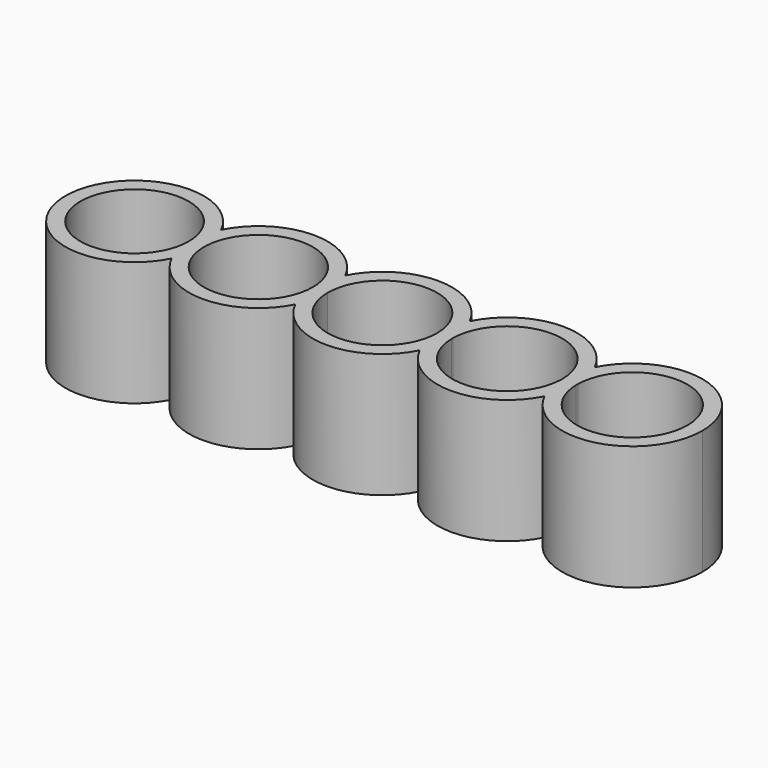
from build123d import *

# Parameters (mm, degrees)
F0_R     = 10.95
F0_R_2   = 10.9
F1_DEPTH = 25


with BuildPart() as f1:
    # F0 (on Top) → F1 (new body)
    with BuildSketch(Plane.XY):
        with BuildLine():
            ThreePointArc((10.9972683067, 0.2451321879), (10.9993170555, 0.122573704), (11, 0))
            ThreePointArc((11, 0), (10.9996660231, -0.0857168628), (10.9986641126, -0.1714285206))
            ThreePointArc((10.9986641126, -0.1714285206), (11.4118831548, -3.3078286765), (12.5163312879, -6.2722763883))
            ThreePointArc((12.5163312879, -6.2722763883), (13.6052225389, -3.3011997316), (13.9990687383, -0.1614758858))
            ThreePointArc((13.9990687383, -0.1614758858), (13.9964054773, 0.0468989626), (13.997672255, 0.2552869798))
            ThreePointArc((13.997672255, 0.2552869798), (13.582794049, 3.3923009629), (12.4740165875, 6.3560137016))
            ThreePointArc((12.4740165875, 6.3560137016), (11.3894594932, 3.3842311013), (10.9972683067, 0.2451321879))
        make_face()
        with BuildLine():
            ThreePointArc((-11, 0), (-0.122573704, 10.9993170555), (10.9972683067, 0.2451321879))
            ThreePointArc((10.9972683067, 0.2451321879), (11.3894594932, 3.3842311013), (12.4740165875, 6.3560137016))
            ThreePointArc((12.4740165875, 6.3560137016), (-0.0320708777, 13.9999632663), (-12.503006012, 6.2987967631))
            ThreePointArc((-12.503006012, 6.2987967631), (-11.3809531261, 3.2378182367), (-11, 0))
        make_face()
        with BuildLine():
            ThreePointArc((12.5163312879, -6.2722763883), (11.4118831548, -3.3078286765), (10.9986641126, -0.1714285206))
            ThreePointArc((10.9986641126, -0.1714285206), (-0.0857168628, -10.9996660231), (-11, 0))
            ThreePointArc((-11, 0), (-11.3809531261, -3.2378182367), (-12.503006012, -6.2987967631))
            ThreePointArc((-12.503006012, -6.2987967631), (0.014839923, -13.9999921349), (12.5163312879, -6.2722763883))
        make_face()
        with BuildLine():
            ThreePointArc((-12.503006012, -6.2987967631), (-11.3809531261, -3.2378182367), (-11, 0))
            ThreePointArc((-11, 0), (-11.3809531261, 3.2378182367), (-12.503006012, 6.2987967631))
            ThreePointArc((-12.503006012, 6.2987967631), (-13.6206109292, 3.2371218568), (-14, 0))
            ThreePointArc((-14, 0), (-13.6206109292, -3.2371218568), (-12.503006012, -6.2987967631))
        make_face()
        with BuildLine():
            ThreePointArc((37.5911230587, 6.4109309034), (25.0156239489, 14.1338913593), (12.4740165875, 6.3560137016))
            ThreePointArc((12.4740165875, 6.3560137016), (13.582794049, 3.3923009629), (13.997672255, 0.2552869798))
            ThreePointArc((13.997672255, 0.2552869798), (25.0203144996, 11.1338942861), (36.094084718, 0.3073365631))
            ThreePointArc((36.094084718, 0.3073365631), (36.4982198066, 3.4436013674), (37.5911230587, 6.4109309034))
        make_face()
        with BuildLine():
            ThreePointArc((13.9990687383, -0.1614758858), (13.6052225389, -3.3011997316), (12.5163312879, -6.2722763883))
            ThreePointArc((12.5163312879, -6.2722763883), (25.0632053772, -13.9660649392), (37.5915761272, -6.2421826234))
            ThreePointArc((37.5915761272, -6.2421826234), (36.4984603763, -3.274931362), (36.094100689, -0.1386955073))
            ThreePointArc((36.094100689, -0.1386955073), (25.0577361887, -10.9660691845), (13.9990687383, -0.1614758858))
        make_face()
        with BuildLine():
            ThreePointArc((-14, 0), (-13.6206109292, 3.2371218568), (-12.503006012, 6.2987967631))
            ThreePointArc((-12.503006012, 6.2987967631), (-24.9844607205, 13.9499574357), (-37.4279618474, 6.2372243935))
            ThreePointArc((-37.4279618474, 6.2372243935), (-36.3245364161, 3.2049703336), (-35.95, 0))
            ThreePointArc((-35.95, 0), (-36.3245364161, -3.2049703336), (-37.4279618474, -6.2372243935))
            ThreePointArc((-37.4279618474, -6.2372243935), (-24.9844607205, -13.9499574357), (-12.503006012, -6.2987967631))
            ThreePointArc((-12.503006012, -6.2987967631), (-13.6206109292, -3.2371218568), (-14, 0))
        make_face()
        with Locations((-24.95, 0)):
            Circle(F0_R, mode=Mode.SUBTRACT)
        with BuildLine():
            ThreePointArc((64.2923288908, 0.0848253417), (53.4429440455, 13.8050112412), (37.5911230587, 6.4109309034))
            ThreePointArc((37.5911230587, 6.4109309034), (38.6885470948, 3.444398058), (39.0945636599, 0.3075513632))
            ThreePointArc((39.0945636599, 0.3075513632), (50.3036975072, 11.1842666354), (61.2923288908, 0.0848253417))
            ThreePointArc((61.2923288908, 0.0848253417), (50.3040949435, -11.0146119571), (39.0945796386, -0.1386954319))
            ThreePointArc((39.0945796386, -0.1386954319), (38.688787716, -3.275571195), (37.5915761272, -6.2421826234))
            ThreePointArc((37.5915761272, -6.2421826234), (53.4434353204, -13.6352441546), (64.2923288908, 0.0848253417))
        make_face()
        with BuildLine():
            ThreePointArc((39.0945636599, 0.3075513632), (38.6885470948, 3.444398058), (37.5911230587, 6.4109309034))
            ThreePointArc((37.5911230587, 6.4109309034), (36.4982198066, 3.4436013674), (36.094084718, 0.3073365631))
            ThreePointArc((36.094084718, 0.3073365631), (36.0957787484, 0.1956364617), (36.0963434444, 0.0839249425))
            ThreePointArc((36.0963434444, 0.0839249425), (36.0957827413, -0.0273909308), (36.094100689, -0.1386955073))
            ThreePointArc((36.094100689, -0.1386955073), (36.4984603763, -3.274931362), (37.5915761272, -6.2421826234))
            ThreePointArc((37.5915761272, -6.2421826234), (38.688787716, -3.275571195), (39.0945796386, -0.1386954319))
            ThreePointArc((39.0945796386, -0.1386954319), (39.0923288979, 0.0844278854), (39.0945636599, 0.3075513632))
        make_face()
        with BuildLine():
            ThreePointArc((-37.4279618474, -6.2372243935), (-38.9, 0), (-37.4279618474, 6.2372243935))
            ThreePointArc((-37.4279618474, 6.2372243935), (-63.75, 0), (-37.4279618474, -6.2372243935))
        make_face()
        with Locations((-49.85, 0)):
            Circle(F0_R_2, mode=Mode.SUBTRACT)
        with BuildLine():
            ThreePointArc((-35.95, 0), (-36.3245364161, 3.2049703336), (-37.4279618474, 6.2372243935))
            ThreePointArc((-37.4279618474, 6.2372243935), (-38.9, 0), (-37.4279618474, -6.2372243935))
            ThreePointArc((-37.4279618474, -6.2372243935), (-36.3245364161, -3.2049703336), (-35.95, 0))
        make_face()
    extrude(amount=F1_DEPTH)


solid = f1.part
